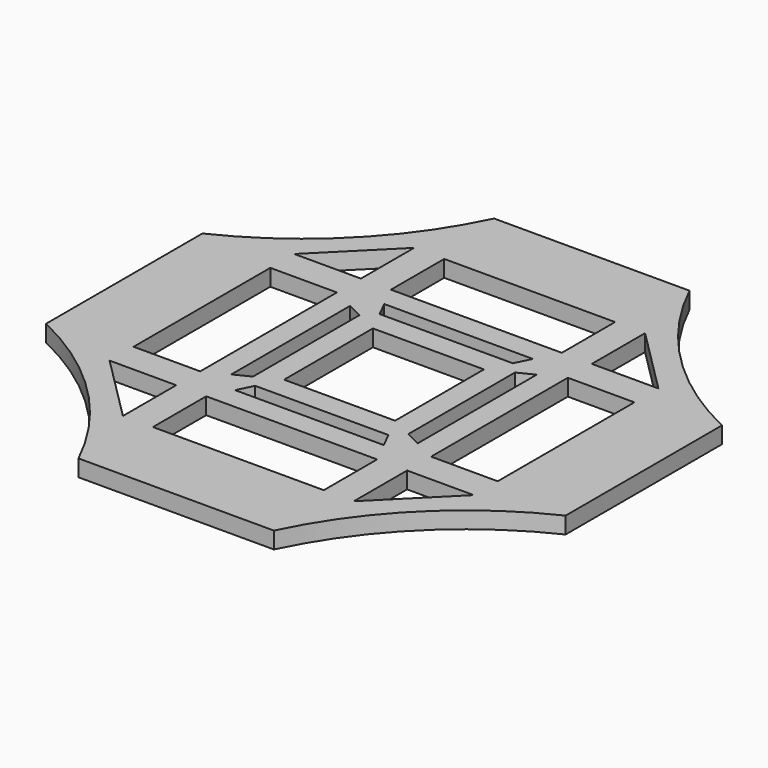
from build123d import *

# Parameters (mm, degrees)
EXTRUDE001_DEPTH = 3
FACE001_W        = 6
FACE001_H        = 15.392872
EXTRUDE002_DEPTH = 3
EXTRUDE003_DEPTH = 3
FACE003_W        = 15.392872
FACE003_H        = 6
EXTRUDE004_DEPTH = 3
EXTRUDE005_DEPTH = 3
EXTRUDE006_DEPTH = 3
EXTRUDE007_DEPTH = 3
FACE007_W        = 10
FACE007_H        = 10
EXTRUDE008_DEPTH = 3
EXTRUDE009_DEPTH = 3
EXTRUDE010_DEPTH = 3
EXTRUDE012_DEPTH = 3
FACE012_W        = 6
FACE012_H        = 15.392872
EXTRUDE013_DEPTH = 3
FACE010_W        = 15.392872
FACE010_H        = 6
EXTRUDE011_DEPTH = 3
EXTRUDE_DEPTH    = 1.5


with BuildPart() as extrude001:
    # Face → Extrude001 (new body)
    with BuildSketch(Plane(origin=(-12.399665, 12.399665, 0), x_dir=(0, 1, 0), z_dir=(0, 0, 1))):
        Polygon((4, -2), (-2, 4), (-2, -2), align=None)
    extrude(amount=EXTRUDE001_DEPTH)


with BuildPart() as extrude002:
    # Face001 → Extrude002 (new body)
    with BuildSketch(Plane(origin=(0, 13.399665, 0), x_dir=(0, 1, 0), z_dir=(0, 0, 1))):
        Rectangle(FACE001_W, FACE001_H)
    extrude(amount=EXTRUDE002_DEPTH)


with BuildPart() as extrude003:
    # Face002 → Extrude003 (new body)
    with BuildSketch(Plane(origin=(12.399665, 12.399665, 0), x_dir=(0, 1, 0), z_dir=(0, 0, 1))):
        Polygon((-2, -4), (4, 2), (-2, 2), align=None)
    extrude(amount=EXTRUDE003_DEPTH)


with BuildPart() as extrude004:
    # Face003 → Extrude004 (new body)
    with BuildSketch(Plane(origin=(13.399665, 0, 0), x_dir=(0, 1, 0), z_dir=(0, 0, 1))):
        Rectangle(FACE003_W, FACE003_H)
    extrude(amount=EXTRUDE004_DEPTH)


with BuildPart() as extrude005:
    # Face004 → Extrude005 (new body)
    with BuildSketch(Plane(origin=(12.399665, -12.399665, 0), x_dir=(0, 1, 0), z_dir=(0, 0, 1))):
        Polygon((2, -4), (2, 2), (-4, 2), align=None)
    extrude(amount=EXTRUDE005_DEPTH)


with BuildPart() as extrude006:
    # Face005 → Extrude006 (new body)
    with BuildSketch(Plane(origin=(7.712675, 0, 0), x_dir=(0, -1, 0), z_dir=(0, 0, -1))):
        Polygon((5.998742, 0.712675), (-5.998742, 0.712675), (-6.697694, -0.686991), (6.697694, -0.686991), align=None)
    extrude(amount=-EXTRUDE006_DEPTH)


with BuildPart() as extrude007:
    # Face006 → Extrude007 (new body)
    with BuildSketch(Plane(origin=(0, 7.712675, 0), x_dir=(0, -1, 0), z_dir=(0, 0, -1))):
        Polygon((-0.686991, 6.697694), (-0.686991, -6.697694), (0.712675, -5.998742), (0.712675, 5.998742), align=None)
    extrude(amount=-EXTRUDE007_DEPTH)


with BuildPart() as extrude008:
    # Face007 → Extrude008 (new body)
    with BuildSketch(Plane(origin=(0, 0, 0), x_dir=(0, 1, 0), z_dir=(0, 0, 1))):
        Rectangle(FACE007_W, FACE007_H)
    extrude(amount=EXTRUDE008_DEPTH)


with BuildPart() as extrude009:
    # Face008 → Extrude009 (new body)
    with BuildSketch(Plane(origin=(0, -7.712675, 0), x_dir=(0, -1, 0), z_dir=(0, 0, -1))):
        Polygon((-0.712675, 5.998742), (-0.712675, -5.998742), (0.686991, -6.697694), (0.686991, 6.697694), align=None)
    extrude(amount=-EXTRUDE009_DEPTH)


with BuildPart() as extrude010:
    # Face009 → Extrude010 (new body)
    with BuildSketch(Plane(origin=(-7.712675, 0, 0), x_dir=(0, -1, 0), z_dir=(0, 0, -1))):
        Polygon((6.697694, 0.686991), (-6.697694, 0.686991), (-5.998742, -0.712675), (5.998742, -0.712675), align=None)
    extrude(amount=-EXTRUDE010_DEPTH)


with BuildPart() as extrude012:
    # Face011 → Extrude012 (new body)
    with BuildSketch(Plane(origin=(-12.399665, -12.399665, 0), x_dir=(0, 1, 0), z_dir=(0, 0, 1))):
        Polygon((2, -2), (2, 4), (-4, -2), align=None)
    extrude(amount=EXTRUDE012_DEPTH)


with BuildPart() as extrude013:
    # Face012 → Extrude013 (new body)
    with BuildSketch(Plane(origin=(0, -13.399665, 0), x_dir=(0, 1, 0), z_dir=(0, 0, 1))):
        Rectangle(FACE012_W, FACE012_H)
    extrude(amount=EXTRUDE013_DEPTH)


with BuildPart() as extrude011:
    # Face010 → Extrude011 (new body)
    with BuildSketch(Plane(origin=(-13.399665, 0, 0), x_dir=(0, 1, 0), z_dir=(0, 0, 1))):
        Rectangle(FACE010_W, FACE010_H)
    extrude(amount=EXTRUDE011_DEPTH)


with BuildPart() as cut012:
    # Face013 → Extrude (new body)
    with BuildSketch(Plane(origin=(0, 0, 0), x_dir=(0, -1, 0), z_dir=(0, 0, -1))):
        with BuildLine():
            ThreePointArc((23.399665, 8.800889), (14.849242, 14.849242), (8.800889, 23.399665))
            Line((8.800889, 23.399665), (-8.800889, 23.399665))
            ThreePointArc((-8.800889, 23.399665), (-14.849242, 14.849242), (-23.399665, 8.800889))
            Line((-23.399665, 8.800889), (-23.399665, -8.800889))
            ThreePointArc((-23.399665, -8.800889), (-14.849242, -14.849242), (-8.800889, -23.399665))
            Line((-8.800889, -23.399665), (8.800889, -23.399665))
            ThreePointArc((8.800889, -23.399665), (14.849242, -14.849242), (23.399665, -8.800889))
            Line((23.399665, -8.800889), (23.399665, 8.800889))
        make_face()
    extrude(amount=-EXTRUDE_DEPTH)

    # Cut: cut Extrude011
    add(extrude011.part, mode=Mode.SUBTRACT)

    # Cut001: cut Extrude013
    add(extrude013.part, mode=Mode.SUBTRACT)

    # Cut002: cut Extrude012
    add(extrude012.part, mode=Mode.SUBTRACT)

    # Cut003: cut Extrude010
    add(extrude010.part, mode=Mode.SUBTRACT)

    # Cut004: cut Extrude009
    add(extrude009.part, mode=Mode.SUBTRACT)

    # Cut005: cut Extrude008
    add(extrude008.part, mode=Mode.SUBTRACT)

    # Cut006: cut Extrude007
    add(extrude007.part, mode=Mode.SUBTRACT)

    # Cut007: cut Extrude006
    add(extrude006.part, mode=Mode.SUBTRACT)

    # Cut008: cut Extrude005
    add(extrude005.part, mode=Mode.SUBTRACT)

    # Cut009: cut Extrude004
    add(extrude004.part, mode=Mode.SUBTRACT)

    # Cut010: cut Extrude003
    add(extrude003.part, mode=Mode.SUBTRACT)

    # Cut011: cut Extrude002
    add(extrude002.part, mode=Mode.SUBTRACT)

    # Cut012: cut Extrude001
    add(extrude001.part, mode=Mode.SUBTRACT)


solid = cut012.part
